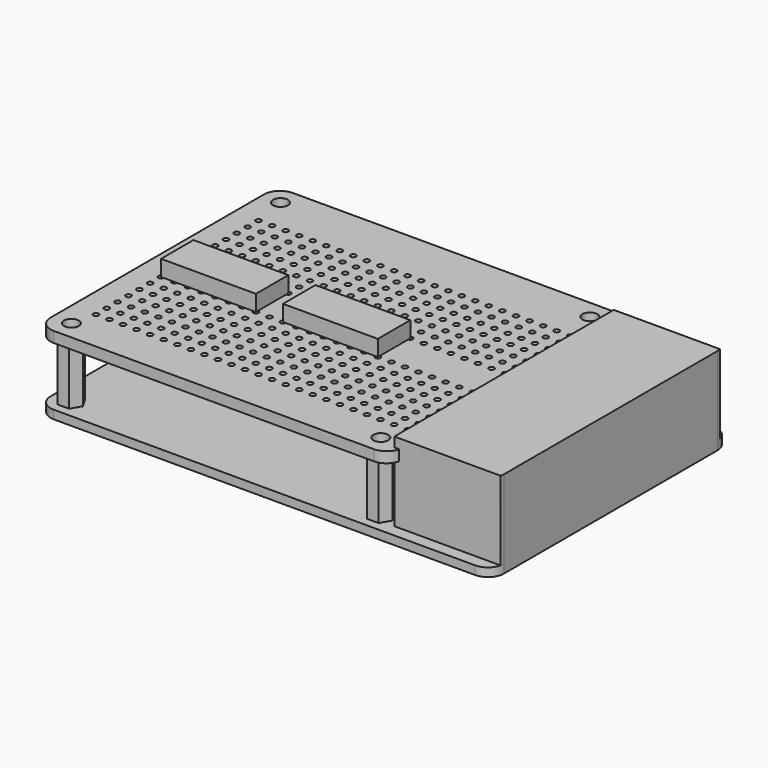
from build123d import *

# Parameters (mm, degrees)
F0_R      = 1.4
F1_DEPTH  = 1.6
F3_DEPTH  = 14.8
F4_W      = 50.8
F4_H      = 8.5
F5_DEPTH  = 8.5
F6_R      = 1.4
F7_DEPTH  = 11
F8_R      = 1.4
F8_R_2    = 0.5
F9_DEPTH  = 2
F10_W     = 17.78
F10_H     = 7.6
F11_DEPTH = 3


with BuildPart() as f1:
    # F0 (on Top) → F1 (new body)
    with BuildSketch(Plane.XY):
        with BuildLine():
            Line((-39.5, -28), (39.5, -28))
            ThreePointArc((39.5, -28), (41.62132, -27.12132), (42.5, -25))
            Line((42.5, -25), (42.5, 25))
            ThreePointArc((42.5, 25), (41.62132, 27.12132), (39.5, 28))
            Line((39.5, 28), (-39.5, 28))
            ThreePointArc((-39.5, 28), (-41.62132, 27.12132), (-42.5, 25))
            Line((-42.5, 25), (-42.5, -25))
            ThreePointArc((-42.5, -25), (-41.62132, -27.12132), (-39.5, -28))
        make_face()
        with Locations((-39, -24.5)):
            Circle(F0_R, mode=Mode.SUBTRACT)
        with Locations((19, -24.5)):
            Circle(F0_R, mode=Mode.SUBTRACT)
        with Locations((-39, 24.5)):
            Circle(F0_R, mode=Mode.SUBTRACT)
        with Locations((19, 24.5)):
            Circle(F0_R, mode=Mode.SUBTRACT)
    extrude(amount=F1_DEPTH)

    # F2 (on face) → F3 (join)
    with BuildSketch(Plane.XY.offset(1.6)):
        with BuildLine():
            Line((42.41719, 25.7), (22.5, 25.7))
            Line((22.5, 25.7), (22.5, -25.7))
            Line((22.5, -25.7), (42.41719, -25.7))
            ThreePointArc((42.41719, -25.7), (42.479226, -25.352441), (42.5, -25))
            Line((42.5, -25), (42.5, 25))
            ThreePointArc((42.5, 25), (42.479226, 25.352441), (42.41719, 25.7))
        make_face()
    extrude(amount=F3_DEPTH)

    # F4 (on face) → F5 (join)
    with BuildSketch(Plane.XY.offset(1.6)):
        with Locations((-10.1, 21.25)):
            Rectangle(F4_W, F4_H)
    extrude(amount=F5_DEPTH)


with BuildPart() as f7:
    # F6 (on face) → F7 (new body)
    with BuildSketch(Plane.XY.offset(1.6)):
        Polygon((-40.075, 26.361955), (-41.15, 24.5), (-40.075, 22.638045), (-37.925, 22.638045), (-36.85, 24.5), (-37.925, 26.361955), align=None)
        with Locations((-39, 24.5)):
            Circle(F6_R, mode=Mode.SUBTRACT)
        Polygon((17.925, 26.361955), (16.85, 24.5), (17.925, 22.638045), (20.075, 22.638045), (21.15, 24.5), (20.075, 26.361955), align=None)
        with Locations((19, 24.5)):
            Circle(F6_R, mode=Mode.SUBTRACT)
        Polygon((17.925, -22.638045), (16.85, -24.5), (17.925, -26.361955), (20.075, -26.361955), (21.15, -24.5), (20.075, -22.638045), align=None)
        with Locations((19, -24.5)):
            Circle(F6_R, mode=Mode.SUBTRACT)
        Polygon((-37.925, -26.361955), (-36.85, -24.5), (-37.925, -22.638045), (-40.075, -22.638045), (-41.15, -24.5), (-40.075, -26.361955), align=None)
        with Locations((-39, -24.5)):
            Circle(F6_R, mode=Mode.SUBTRACT)
    extrude(amount=F7_DEPTH)


with BuildPart() as f9:
    # F8 (on face) → F9 (new body)
    with BuildSketch(Plane.XY.offset(12.6)):
        with BuildLine():
            Line((-39.5, -28), (20.5, -28))
            ThreePointArc((20.5, -28), (22.62132, -27.12132), (23.5, -25))
            Line((23.5, -25), (23.5, 25))
            ThreePointArc((23.5, 25), (22.62132, 27.12132), (20.5, 28))
            Line((20.5, 28), (-39.5, 28))
            ThreePointArc((-39.5, 28), (-41.62132, 27.12132), (-42.5, 25))
            Line((-42.5, 25), (-42.5, -25))
            ThreePointArc((-42.5, -25), (-41.62132, -27.12132), (-39.5, -28))
        make_face()
        with Locations((-39, -24.5)):
            Circle(F8_R, mode=Mode.SUBTRACT)
        with Locations((-37.92, -20.08)):
            Circle(F8_R_2, mode=Mode.SUBTRACT)
        with Locations((-35.38, -20.08)):
            Circle(F8_R_2, mode=Mode.SUBTRACT)
        with Locations((-37.92, -17.54)):
            Circle(F8_R_2, mode=Mode.SUBTRACT)
        with Locations((-35.38, -17.54)):
            Circle(F8_R_2, mode=Mode.SUBTRACT)
        with Locations((-37.92, -15)):
            Circle(F8_R_2, mode=Mode.SUBTRACT)
        with Locations((-35.38, -15)):
            Circle(F8_R_2, mode=Mode.SUBTRACT)
        with Locations((-32.84, -20.08)):
            Circle(F8_R_2, mode=Mode.SUBTRACT)
        with Locations((-30.3, -20.08)):
            Circle(F8_R_2, mode=Mode.SUBTRACT)
        with Locations((-32.84, -17.54)):
            Circle(F8_R_2, mode=Mode.SUBTRACT)
        with Locations((-30.3, -17.54)):
            Circle(F8_R_2, mode=Mode.SUBTRACT)
        with Locations((-27.76, -20.08)):
            Circle(F8_R_2, mode=Mode.SUBTRACT)
        with Locations((-27.76, -17.54)):
            Circle(F8_R_2, mode=Mode.SUBTRACT)
        with Locations((-32.84, -15)):
            Circle(F8_R_2, mode=Mode.SUBTRACT)
        with Locations((-30.3, -15)):
            Circle(F8_R_2, mode=Mode.SUBTRACT)
        with Locations((-27.76, -15)):
            Circle(F8_R_2, mode=Mode.SUBTRACT)
        with Locations((-25.22, -20.08)):
            Circle(F8_R_2, mode=Mode.SUBTRACT)
        with Locations((-22.68, -20.08)):
            Circle(F8_R_2, mode=Mode.SUBTRACT)
        with Locations((-25.22, -17.54)):
            Circle(F8_R_2, mode=Mode.SUBTRACT)
        with Locations((-22.68, -17.54)):
            Circle(F8_R_2, mode=Mode.SUBTRACT)
        with Locations((-20.14, -20.08)):
            Circle(F8_R_2, mode=Mode.SUBTRACT)
        with Locations((-20.14, -17.54)):
            Circle(F8_R_2, mode=Mode.SUBTRACT)
        with Locations((-25.22, -15)):
            Circle(F8_R_2, mode=Mode.SUBTRACT)
        with Locations((-22.68, -15)):
            Circle(F8_R_2, mode=Mode.SUBTRACT)
        with Locations((-20.14, -15)):
            Circle(F8_R_2, mode=Mode.SUBTRACT)
        with Locations((-17.6, -20.08)):
            Circle(F8_R_2, mode=Mode.SUBTRACT)
        with Locations((-15.06, -20.08)):
            Circle(F8_R_2, mode=Mode.SUBTRACT)
        with Locations((-17.6, -17.54)):
            Circle(F8_R_2, mode=Mode.SUBTRACT)
        with Locations((-15.06, -17.54)):
            Circle(F8_R_2, mode=Mode.SUBTRACT)
        with Locations((-12.52, -20.08)):
            Circle(F8_R_2, mode=Mode.SUBTRACT)
        with Locations((-9.98, -20.08)):
            Circle(F8_R_2, mode=Mode.SUBTRACT)
        with Locations((-12.52, -17.54)):
            Circle(F8_R_2, mode=Mode.SUBTRACT)
        with Locations((-9.98, -17.54)):
            Circle(F8_R_2, mode=Mode.SUBTRACT)
        with Locations((-17.6, -15)):
            Circle(F8_R_2, mode=Mode.SUBTRACT)
        with Locations((-15.06, -15)):
            Circle(F8_R_2, mode=Mode.SUBTRACT)
        with Locations((-12.52, -15)):
            Circle(F8_R_2, mode=Mode.SUBTRACT)
        with Locations((-9.98, -15)):
            Circle(F8_R_2, mode=Mode.SUBTRACT)
        with Locations((-37.92, -12.46)):
            Circle(F8_R_2, mode=Mode.SUBTRACT)
        with Locations((-35.38, -12.46)):
            Circle(F8_R_2, mode=Mode.SUBTRACT)
        with Locations((-37.92, -9.92)):
            Circle(F8_R_2, mode=Mode.SUBTRACT)
        with Locations((-35.38, -9.92)):
            Circle(F8_R_2, mode=Mode.SUBTRACT)
        with Locations((-37.92, -7.38)):
            Circle(F8_R_2, mode=Mode.SUBTRACT)
        with Locations((-35.38, -7.38)):
            Circle(F8_R_2, mode=Mode.SUBTRACT)
        with Locations((-32.84, -12.46)):
            Circle(F8_R_2, mode=Mode.SUBTRACT)
        with Locations((-30.3, -12.46)):
            Circle(F8_R_2, mode=Mode.SUBTRACT)
        with Locations((-27.76, -12.46)):
            Circle(F8_R_2, mode=Mode.SUBTRACT)
        with Locations((-32.84, -9.92)):
            Circle(F8_R_2, mode=Mode.SUBTRACT)
        with Locations((-30.3, -9.92)):
            Circle(F8_R_2, mode=Mode.SUBTRACT)
        with Locations((-32.84, -7.38)):
            Circle(F8_R_2, mode=Mode.SUBTRACT)
        with Locations((-30.3, -7.38)):
            Circle(F8_R_2, mode=Mode.SUBTRACT)
        with Locations((-27.76, -9.92)):
            Circle(F8_R_2, mode=Mode.SUBTRACT)
        with Locations((-27.76, -7.38)):
            Circle(F8_R_2, mode=Mode.SUBTRACT)
        with Locations((-37.92, -4.84)):
            Circle(F8_R_2, mode=Mode.SUBTRACT)
        with Locations((-35.38, -4.84)):
            Circle(F8_R_2, mode=Mode.SUBTRACT)
        with Locations((-32.84, -4.84)):
            Circle(F8_R_2, mode=Mode.SUBTRACT)
        with Locations((-30.3, -4.84)):
            Circle(F8_R_2, mode=Mode.SUBTRACT)
        with Locations((-27.76, -4.84)):
            Circle(F8_R_2, mode=Mode.SUBTRACT)
        with Locations((-25.22, -12.46)):
            Circle(F8_R_2, mode=Mode.SUBTRACT)
        with Locations((-22.68, -12.46)):
            Circle(F8_R_2, mode=Mode.SUBTRACT)
        with Locations((-20.14, -12.46)):
            Circle(F8_R_2, mode=Mode.SUBTRACT)
        with Locations((-25.22, -9.92)):
            Circle(F8_R_2, mode=Mode.SUBTRACT)
        with Locations((-22.68, -9.92)):
            Circle(F8_R_2, mode=Mode.SUBTRACT)
        with Locations((-25.22, -7.38)):
            Circle(F8_R_2, mode=Mode.SUBTRACT)
        with Locations((-22.68, -7.38)):
            Circle(F8_R_2, mode=Mode.SUBTRACT)
        with Locations((-20.14, -9.92)):
            Circle(F8_R_2, mode=Mode.SUBTRACT)
        with Locations((-20.14, -7.38)):
            Circle(F8_R_2, mode=Mode.SUBTRACT)
        with Locations((-17.6, -12.46)):
            Circle(F8_R_2, mode=Mode.SUBTRACT)
        with Locations((-15.06, -12.46)):
            Circle(F8_R_2, mode=Mode.SUBTRACT)
        with Locations((-12.52, -12.46)):
            Circle(F8_R_2, mode=Mode.SUBTRACT)
        with Locations((-9.98, -12.46)):
            Circle(F8_R_2, mode=Mode.SUBTRACT)
        with Locations((-17.6, -9.92)):
            Circle(F8_R_2, mode=Mode.SUBTRACT)
        with Locations((-15.06, -9.92)):
            Circle(F8_R_2, mode=Mode.SUBTRACT)
        with Locations((-17.6, -7.38)):
            Circle(F8_R_2, mode=Mode.SUBTRACT)
        with Locations((-15.06, -7.38)):
            Circle(F8_R_2, mode=Mode.SUBTRACT)
        with Locations((-12.52, -9.92)):
            Circle(F8_R_2, mode=Mode.SUBTRACT)
        with Locations((-9.98, -9.92)):
            Circle(F8_R_2, mode=Mode.SUBTRACT)
        with Locations((-12.52, -7.38)):
            Circle(F8_R_2, mode=Mode.SUBTRACT)
        with Locations((-9.98, -7.38)):
            Circle(F8_R_2, mode=Mode.SUBTRACT)
        with Locations((-25.22, -4.84)):
            Circle(F8_R_2, mode=Mode.SUBTRACT)
        with Locations((-22.68, -4.84)):
            Circle(F8_R_2, mode=Mode.SUBTRACT)
        with Locations((-20.14, -4.84)):
            Circle(F8_R_2, mode=Mode.SUBTRACT)
        with Locations((-17.6, -4.84)):
            Circle(F8_R_2, mode=Mode.SUBTRACT)
        with Locations((-15.06, -4.84)):
            Circle(F8_R_2, mode=Mode.SUBTRACT)
        with Locations((-12.52, -4.84)):
            Circle(F8_R_2, mode=Mode.SUBTRACT)
        with Locations((-9.98, -4.84)):
            Circle(F8_R_2, mode=Mode.SUBTRACT)
        with Locations((-7.44, -20.08)):
            Circle(F8_R_2, mode=Mode.SUBTRACT)
        with Locations((-7.44, -17.54)):
            Circle(F8_R_2, mode=Mode.SUBTRACT)
        with Locations((-4.9, -20.08)):
            Circle(F8_R_2, mode=Mode.SUBTRACT)
        with Locations((-2.36, -20.08)):
            Circle(F8_R_2, mode=Mode.SUBTRACT)
        with Locations((-4.9, -17.54)):
            Circle(F8_R_2, mode=Mode.SUBTRACT)
        with Locations((-2.36, -17.54)):
            Circle(F8_R_2, mode=Mode.SUBTRACT)
        with Locations((-7.44, -15)):
            Circle(F8_R_2, mode=Mode.SUBTRACT)
        with Locations((-4.9, -15)):
            Circle(F8_R_2, mode=Mode.SUBTRACT)
        with Locations((-2.36, -15)):
            Circle(F8_R_2, mode=Mode.SUBTRACT)
        with Locations((0.18, -20.08)):
            Circle(F8_R_2, mode=Mode.SUBTRACT)
        with Locations((2.72, -20.08)):
            Circle(F8_R_2, mode=Mode.SUBTRACT)
        with Locations((0.18, -17.54)):
            Circle(F8_R_2, mode=Mode.SUBTRACT)
        with Locations((2.72, -17.54)):
            Circle(F8_R_2, mode=Mode.SUBTRACT)
        with Locations((5.26, -20.08)):
            Circle(F8_R_2, mode=Mode.SUBTRACT)
        with Locations((5.26, -17.54)):
            Circle(F8_R_2, mode=Mode.SUBTRACT)
        with Locations((0.18, -15)):
            Circle(F8_R_2, mode=Mode.SUBTRACT)
        with Locations((2.72, -15)):
            Circle(F8_R_2, mode=Mode.SUBTRACT)
        with Locations((5.26, -15)):
            Circle(F8_R_2, mode=Mode.SUBTRACT)
        with Locations((19, -24.5)):
            Circle(F8_R, mode=Mode.SUBTRACT)
        with Locations((7.8, -20.08)):
            Circle(F8_R_2, mode=Mode.SUBTRACT)
        with Locations((10.34, -20.08)):
            Circle(F8_R_2, mode=Mode.SUBTRACT)
        with Locations((7.8, -17.54)):
            Circle(F8_R_2, mode=Mode.SUBTRACT)
        with Locations((10.34, -17.54)):
            Circle(F8_R_2, mode=Mode.SUBTRACT)
        with Locations((12.88, -20.08)):
            Circle(F8_R_2, mode=Mode.SUBTRACT)
        with Locations((12.88, -17.54)):
            Circle(F8_R_2, mode=Mode.SUBTRACT)
        with Locations((7.8, -15)):
            Circle(F8_R_2, mode=Mode.SUBTRACT)
        with Locations((10.34, -15)):
            Circle(F8_R_2, mode=Mode.SUBTRACT)
        with Locations((12.88, -15)):
            Circle(F8_R_2, mode=Mode.SUBTRACT)
        with Locations((15.42, -20.08)):
            Circle(F8_R_2, mode=Mode.SUBTRACT)
        with Locations((17.96, -20.08)):
            Circle(F8_R_2, mode=Mode.SUBTRACT)
        with Locations((15.42, -17.54)):
            Circle(F8_R_2, mode=Mode.SUBTRACT)
        with Locations((17.96, -17.54)):
            Circle(F8_R_2, mode=Mode.SUBTRACT)
        with Locations((20.5, -20.08)):
            Circle(F8_R_2, mode=Mode.SUBTRACT)
        with Locations((20.5, -17.54)):
            Circle(F8_R_2, mode=Mode.SUBTRACT)
        with Locations((15.42, -15)):
            Circle(F8_R_2, mode=Mode.SUBTRACT)
        with Locations((17.96, -15)):
            Circle(F8_R_2, mode=Mode.SUBTRACT)
        with Locations((20.5, -15)):
            Circle(F8_R_2, mode=Mode.SUBTRACT)
        with Locations((-7.44, -12.46)):
            Circle(F8_R_2, mode=Mode.SUBTRACT)
        with Locations((-4.9, -12.46)):
            Circle(F8_R_2, mode=Mode.SUBTRACT)
        with Locations((-2.36, -12.46)):
            Circle(F8_R_2, mode=Mode.SUBTRACT)
        with Locations((-7.44, -9.92)):
            Circle(F8_R_2, mode=Mode.SUBTRACT)
        with Locations((-7.44, -7.38)):
            Circle(F8_R_2, mode=Mode.SUBTRACT)
        with Locations((-4.9, -9.92)):
            Circle(F8_R_2, mode=Mode.SUBTRACT)
        with Locations((-2.36, -9.92)):
            Circle(F8_R_2, mode=Mode.SUBTRACT)
        with Locations((-4.9, -7.38)):
            Circle(F8_R_2, mode=Mode.SUBTRACT)
        with Locations((-2.36, -7.38)):
            Circle(F8_R_2, mode=Mode.SUBTRACT)
        with Locations((0.18, -12.46)):
            Circle(F8_R_2, mode=Mode.SUBTRACT)
        with Locations((2.72, -12.46)):
            Circle(F8_R_2, mode=Mode.SUBTRACT)
        with Locations((5.26, -12.46)):
            Circle(F8_R_2, mode=Mode.SUBTRACT)
        with Locations((0.18, -9.92)):
            Circle(F8_R_2, mode=Mode.SUBTRACT)
        with Locations((2.72, -9.92)):
            Circle(F8_R_2, mode=Mode.SUBTRACT)
        with Locations((0.18, -7.38)):
            Circle(F8_R_2, mode=Mode.SUBTRACT)
        with Locations((2.72, -7.38)):
            Circle(F8_R_2, mode=Mode.SUBTRACT)
        with Locations((5.26, -9.92)):
            Circle(F8_R_2, mode=Mode.SUBTRACT)
        with Locations((5.26, -7.38)):
            Circle(F8_R_2, mode=Mode.SUBTRACT)
        with Locations((-7.44, -4.84)):
            Circle(F8_R_2, mode=Mode.SUBTRACT)
        with Locations((-4.9, -4.84)):
            Circle(F8_R_2, mode=Mode.SUBTRACT)
        with Locations((-2.36, -4.84)):
            Circle(F8_R_2, mode=Mode.SUBTRACT)
        with Locations((0.18, -4.84)):
            Circle(F8_R_2, mode=Mode.SUBTRACT)
        with Locations((2.72, -4.84)):
            Circle(F8_R_2, mode=Mode.SUBTRACT)
        with Locations((5.26, -4.84)):
            Circle(F8_R_2, mode=Mode.SUBTRACT)
        with Locations((7.8, -12.46)):
            Circle(F8_R_2, mode=Mode.SUBTRACT)
        with Locations((10.34, -12.46)):
            Circle(F8_R_2, mode=Mode.SUBTRACT)
        with Locations((12.88, -12.46)):
            Circle(F8_R_2, mode=Mode.SUBTRACT)
        with Locations((7.8, -9.92)):
            Circle(F8_R_2, mode=Mode.SUBTRACT)
        with Locations((10.34, -9.92)):
            Circle(F8_R_2, mode=Mode.SUBTRACT)
        with Locations((7.8, -7.38)):
            Circle(F8_R_2, mode=Mode.SUBTRACT)
        with Locations((10.34, -7.38)):
            Circle(F8_R_2, mode=Mode.SUBTRACT)
        with Locations((12.88, -9.92)):
            Circle(F8_R_2, mode=Mode.SUBTRACT)
        with Locations((12.88, -7.38)):
            Circle(F8_R_2, mode=Mode.SUBTRACT)
        with Locations((15.42, -12.46)):
            Circle(F8_R_2, mode=Mode.SUBTRACT)
        with Locations((17.96, -12.46)):
            Circle(F8_R_2, mode=Mode.SUBTRACT)
        with Locations((20.5, -12.46)):
            Circle(F8_R_2, mode=Mode.SUBTRACT)
        with Locations((15.42, -9.92)):
            Circle(F8_R_2, mode=Mode.SUBTRACT)
        with Locations((17.96, -9.92)):
            Circle(F8_R_2, mode=Mode.SUBTRACT)
        with Locations((15.42, -7.38)):
            Circle(F8_R_2, mode=Mode.SUBTRACT)
        with Locations((17.96, -7.38)):
            Circle(F8_R_2, mode=Mode.SUBTRACT)
        with Locations((20.5, -9.92)):
            Circle(F8_R_2, mode=Mode.SUBTRACT)
        with Locations((20.5, -7.38)):
            Circle(F8_R_2, mode=Mode.SUBTRACT)
        with Locations((7.8, -4.84)):
            Circle(F8_R_2, mode=Mode.SUBTRACT)
        with Locations((10.34, -4.84)):
            Circle(F8_R_2, mode=Mode.SUBTRACT)
        with Locations((12.88, -4.84)):
            Circle(F8_R_2, mode=Mode.SUBTRACT)
        with Locations((15.42, -4.84)):
            Circle(F8_R_2, mode=Mode.SUBTRACT)
        with Locations((17.96, -4.84)):
            Circle(F8_R_2, mode=Mode.SUBTRACT)
        with Locations((20.5, -4.84)):
            Circle(F8_R_2, mode=Mode.SUBTRACT)
        with Locations((-37.92, 2.76)):
            Circle(F8_R_2, mode=Mode.SUBTRACT)
        with Locations((-35.38, 2.76)):
            Circle(F8_R_2, mode=Mode.SUBTRACT)
        with Locations((-37.92, 5.3)):
            Circle(F8_R_2, mode=Mode.SUBTRACT)
        with Locations((-35.38, 5.3)):
            Circle(F8_R_2, mode=Mode.SUBTRACT)
        with Locations((-32.84, 2.76)):
            Circle(F8_R_2, mode=Mode.SUBTRACT)
        with Locations((-30.3, 2.76)):
            Circle(F8_R_2, mode=Mode.SUBTRACT)
        with Locations((-27.76, 2.76)):
            Circle(F8_R_2, mode=Mode.SUBTRACT)
        with Locations((-32.84, 5.3)):
            Circle(F8_R_2, mode=Mode.SUBTRACT)
        with Locations((-30.3, 5.3)):
            Circle(F8_R_2, mode=Mode.SUBTRACT)
        with Locations((-27.76, 5.3)):
            Circle(F8_R_2, mode=Mode.SUBTRACT)
        with Locations((-37.92, 7.84)):
            Circle(F8_R_2, mode=Mode.SUBTRACT)
        with Locations((-35.38, 7.84)):
            Circle(F8_R_2, mode=Mode.SUBTRACT)
        with Locations((-37.92, 10.38)):
            Circle(F8_R_2, mode=Mode.SUBTRACT)
        with Locations((-35.38, 10.38)):
            Circle(F8_R_2, mode=Mode.SUBTRACT)
        with Locations((-37.92, 12.92)):
            Circle(F8_R_2, mode=Mode.SUBTRACT)
        with Locations((-35.38, 12.92)):
            Circle(F8_R_2, mode=Mode.SUBTRACT)
        with Locations((-32.84, 7.84)):
            Circle(F8_R_2, mode=Mode.SUBTRACT)
        with Locations((-30.3, 7.84)):
            Circle(F8_R_2, mode=Mode.SUBTRACT)
        with Locations((-32.84, 10.38)):
            Circle(F8_R_2, mode=Mode.SUBTRACT)
        with Locations((-30.3, 10.38)):
            Circle(F8_R_2, mode=Mode.SUBTRACT)
        with Locations((-27.76, 7.84)):
            Circle(F8_R_2, mode=Mode.SUBTRACT)
        with Locations((-27.76, 10.38)):
            Circle(F8_R_2, mode=Mode.SUBTRACT)
        with Locations((-32.84, 12.92)):
            Circle(F8_R_2, mode=Mode.SUBTRACT)
        with Locations((-30.3, 12.92)):
            Circle(F8_R_2, mode=Mode.SUBTRACT)
        with Locations((-27.76, 12.92)):
            Circle(F8_R_2, mode=Mode.SUBTRACT)
        with Locations((-25.22, 2.76)):
            Circle(F8_R_2, mode=Mode.SUBTRACT)
        with Locations((-22.68, 2.76)):
            Circle(F8_R_2, mode=Mode.SUBTRACT)
        with Locations((-20.14, 2.76)):
            Circle(F8_R_2, mode=Mode.SUBTRACT)
        with Locations((-25.22, 5.3)):
            Circle(F8_R_2, mode=Mode.SUBTRACT)
        with Locations((-22.68, 5.3)):
            Circle(F8_R_2, mode=Mode.SUBTRACT)
        with Locations((-20.14, 5.3)):
            Circle(F8_R_2, mode=Mode.SUBTRACT)
        with Locations((-17.6, 2.76)):
            Circle(F8_R_2, mode=Mode.SUBTRACT)
        with Locations((-15.06, 2.76)):
            Circle(F8_R_2, mode=Mode.SUBTRACT)
        with Locations((-12.52, 2.76)):
            Circle(F8_R_2, mode=Mode.SUBTRACT)
        with Locations((-9.98, 2.76)):
            Circle(F8_R_2, mode=Mode.SUBTRACT)
        with Locations((-17.6, 5.3)):
            Circle(F8_R_2, mode=Mode.SUBTRACT)
        with Locations((-15.06, 5.3)):
            Circle(F8_R_2, mode=Mode.SUBTRACT)
        with Locations((-12.52, 5.3)):
            Circle(F8_R_2, mode=Mode.SUBTRACT)
        with Locations((-9.98, 5.3)):
            Circle(F8_R_2, mode=Mode.SUBTRACT)
        with Locations((-25.22, 7.84)):
            Circle(F8_R_2, mode=Mode.SUBTRACT)
        with Locations((-22.68, 7.84)):
            Circle(F8_R_2, mode=Mode.SUBTRACT)
        with Locations((-25.22, 10.38)):
            Circle(F8_R_2, mode=Mode.SUBTRACT)
        with Locations((-22.68, 10.38)):
            Circle(F8_R_2, mode=Mode.SUBTRACT)
        with Locations((-20.14, 7.84)):
            Circle(F8_R_2, mode=Mode.SUBTRACT)
        with Locations((-20.14, 10.38)):
            Circle(F8_R_2, mode=Mode.SUBTRACT)
        with Locations((-25.22, 12.92)):
            Circle(F8_R_2, mode=Mode.SUBTRACT)
        with Locations((-22.68, 12.92)):
            Circle(F8_R_2, mode=Mode.SUBTRACT)
        with Locations((-20.14, 12.92)):
            Circle(F8_R_2, mode=Mode.SUBTRACT)
        with Locations((-17.6, 7.84)):
            Circle(F8_R_2, mode=Mode.SUBTRACT)
        with Locations((-15.06, 7.84)):
            Circle(F8_R_2, mode=Mode.SUBTRACT)
        with Locations((-17.6, 10.38)):
            Circle(F8_R_2, mode=Mode.SUBTRACT)
        with Locations((-15.06, 10.38)):
            Circle(F8_R_2, mode=Mode.SUBTRACT)
        with Locations((-12.52, 7.84)):
            Circle(F8_R_2, mode=Mode.SUBTRACT)
        with Locations((-9.98, 7.84)):
            Circle(F8_R_2, mode=Mode.SUBTRACT)
        with Locations((-12.52, 10.38)):
            Circle(F8_R_2, mode=Mode.SUBTRACT)
        with Locations((-9.98, 10.38)):
            Circle(F8_R_2, mode=Mode.SUBTRACT)
        with Locations((-17.6, 12.92)):
            Circle(F8_R_2, mode=Mode.SUBTRACT)
        with Locations((-15.06, 12.92)):
            Circle(F8_R_2, mode=Mode.SUBTRACT)
        with Locations((-12.52, 12.92)):
            Circle(F8_R_2, mode=Mode.SUBTRACT)
        with Locations((-9.98, 12.92)):
            Circle(F8_R_2, mode=Mode.SUBTRACT)
        with Locations((-37.92, 15.46)):
            Circle(F8_R_2, mode=Mode.SUBTRACT)
        with Locations((-35.38, 15.46)):
            Circle(F8_R_2, mode=Mode.SUBTRACT)
        with Locations((-37.92, 18)):
            Circle(F8_R_2, mode=Mode.SUBTRACT)
        with Locations((-35.38, 18)):
            Circle(F8_R_2, mode=Mode.SUBTRACT)
        with Locations((-32.84, 15.46)):
            Circle(F8_R_2, mode=Mode.SUBTRACT)
        with Locations((-30.3, 15.46)):
            Circle(F8_R_2, mode=Mode.SUBTRACT)
        with Locations((-27.76, 15.46)):
            Circle(F8_R_2, mode=Mode.SUBTRACT)
        with Locations((-32.84, 18)):
            Circle(F8_R_2, mode=Mode.SUBTRACT)
        with Locations((-30.3, 18)):
            Circle(F8_R_2, mode=Mode.SUBTRACT)
        with Locations((-27.76, 18)):
            Circle(F8_R_2, mode=Mode.SUBTRACT)
        with Locations((-39, 24.5)):
            Circle(F8_R, mode=Mode.SUBTRACT)
        with Locations((-25.22, 15.46)):
            Circle(F8_R_2, mode=Mode.SUBTRACT)
        with Locations((-22.68, 15.46)):
            Circle(F8_R_2, mode=Mode.SUBTRACT)
        with Locations((-20.14, 15.46)):
            Circle(F8_R_2, mode=Mode.SUBTRACT)
        with Locations((-25.22, 18)):
            Circle(F8_R_2, mode=Mode.SUBTRACT)
        with Locations((-22.68, 18)):
            Circle(F8_R_2, mode=Mode.SUBTRACT)
        with Locations((-20.14, 18)):
            Circle(F8_R_2, mode=Mode.SUBTRACT)
        with Locations((-17.6, 15.46)):
            Circle(F8_R_2, mode=Mode.SUBTRACT)
        with Locations((-15.06, 15.46)):
            Circle(F8_R_2, mode=Mode.SUBTRACT)
        with Locations((-12.52, 15.46)):
            Circle(F8_R_2, mode=Mode.SUBTRACT)
        with Locations((-9.98, 15.46)):
            Circle(F8_R_2, mode=Mode.SUBTRACT)
        with Locations((-17.6, 18)):
            Circle(F8_R_2, mode=Mode.SUBTRACT)
        with Locations((-15.06, 18)):
            Circle(F8_R_2, mode=Mode.SUBTRACT)
        with Locations((-12.52, 18)):
            Circle(F8_R_2, mode=Mode.SUBTRACT)
        with Locations((-9.98, 18)):
            Circle(F8_R_2, mode=Mode.SUBTRACT)
        with Locations((-7.44, 2.76)):
            Circle(F8_R_2, mode=Mode.SUBTRACT)
        with Locations((-4.9, 2.76)):
            Circle(F8_R_2, mode=Mode.SUBTRACT)
        with Locations((-2.36, 2.76)):
            Circle(F8_R_2, mode=Mode.SUBTRACT)
        with Locations((-7.44, 5.3)):
            Circle(F8_R_2, mode=Mode.SUBTRACT)
        with Locations((-4.9, 5.3)):
            Circle(F8_R_2, mode=Mode.SUBTRACT)
        with Locations((-2.36, 5.3)):
            Circle(F8_R_2, mode=Mode.SUBTRACT)
        with Locations((0.18, 2.76)):
            Circle(F8_R_2, mode=Mode.SUBTRACT)
        with Locations((2.72, 2.76)):
            Circle(F8_R_2, mode=Mode.SUBTRACT)
        with Locations((5.26, 2.76)):
            Circle(F8_R_2, mode=Mode.SUBTRACT)
        with Locations((0.18, 5.3)):
            Circle(F8_R_2, mode=Mode.SUBTRACT)
        with Locations((2.72, 5.3)):
            Circle(F8_R_2, mode=Mode.SUBTRACT)
        with Locations((5.26, 5.3)):
            Circle(F8_R_2, mode=Mode.SUBTRACT)
        with Locations((-7.44, 7.84)):
            Circle(F8_R_2, mode=Mode.SUBTRACT)
        with Locations((-7.44, 10.38)):
            Circle(F8_R_2, mode=Mode.SUBTRACT)
        with Locations((-4.9, 7.84)):
            Circle(F8_R_2, mode=Mode.SUBTRACT)
        with Locations((-2.36, 7.84)):
            Circle(F8_R_2, mode=Mode.SUBTRACT)
        with Locations((-4.9, 10.38)):
            Circle(F8_R_2, mode=Mode.SUBTRACT)
        with Locations((-2.36, 10.38)):
            Circle(F8_R_2, mode=Mode.SUBTRACT)
        with Locations((-7.44, 12.92)):
            Circle(F8_R_2, mode=Mode.SUBTRACT)
        with Locations((-4.9, 12.92)):
            Circle(F8_R_2, mode=Mode.SUBTRACT)
        with Locations((-2.36, 12.92)):
            Circle(F8_R_2, mode=Mode.SUBTRACT)
        with Locations((0.18, 7.84)):
            Circle(F8_R_2, mode=Mode.SUBTRACT)
        with Locations((2.72, 7.84)):
            Circle(F8_R_2, mode=Mode.SUBTRACT)
        with Locations((0.18, 10.38)):
            Circle(F8_R_2, mode=Mode.SUBTRACT)
        with Locations((2.72, 10.38)):
            Circle(F8_R_2, mode=Mode.SUBTRACT)
        with Locations((5.26, 7.84)):
            Circle(F8_R_2, mode=Mode.SUBTRACT)
        with Locations((5.26, 10.38)):
            Circle(F8_R_2, mode=Mode.SUBTRACT)
        with Locations((0.18, 12.92)):
            Circle(F8_R_2, mode=Mode.SUBTRACT)
        with Locations((2.72, 12.92)):
            Circle(F8_R_2, mode=Mode.SUBTRACT)
        with Locations((5.26, 12.92)):
            Circle(F8_R_2, mode=Mode.SUBTRACT)
        with Locations((7.8, 2.76)):
            Circle(F8_R_2, mode=Mode.SUBTRACT)
        with Locations((10.34, 2.76)):
            Circle(F8_R_2, mode=Mode.SUBTRACT)
        with Locations((12.88, 2.76)):
            Circle(F8_R_2, mode=Mode.SUBTRACT)
        with Locations((7.8, 5.3)):
            Circle(F8_R_2, mode=Mode.SUBTRACT)
        with Locations((10.34, 5.3)):
            Circle(F8_R_2, mode=Mode.SUBTRACT)
        with Locations((12.88, 5.3)):
            Circle(F8_R_2, mode=Mode.SUBTRACT)
        with Locations((15.42, 2.76)):
            Circle(F8_R_2, mode=Mode.SUBTRACT)
        with Locations((17.96, 2.76)):
            Circle(F8_R_2, mode=Mode.SUBTRACT)
        with Locations((20.5, 2.76)):
            Circle(F8_R_2, mode=Mode.SUBTRACT)
        with Locations((15.42, 5.3)):
            Circle(F8_R_2, mode=Mode.SUBTRACT)
        with Locations((17.96, 5.3)):
            Circle(F8_R_2, mode=Mode.SUBTRACT)
        with Locations((20.5, 5.3)):
            Circle(F8_R_2, mode=Mode.SUBTRACT)
        with Locations((7.8, 7.84)):
            Circle(F8_R_2, mode=Mode.SUBTRACT)
        with Locations((10.34, 7.84)):
            Circle(F8_R_2, mode=Mode.SUBTRACT)
        with Locations((7.8, 10.38)):
            Circle(F8_R_2, mode=Mode.SUBTRACT)
        with Locations((10.34, 10.38)):
            Circle(F8_R_2, mode=Mode.SUBTRACT)
        with Locations((12.88, 7.84)):
            Circle(F8_R_2, mode=Mode.SUBTRACT)
        with Locations((12.88, 10.38)):
            Circle(F8_R_2, mode=Mode.SUBTRACT)
        with Locations((7.8, 12.92)):
            Circle(F8_R_2, mode=Mode.SUBTRACT)
        with Locations((10.34, 12.92)):
            Circle(F8_R_2, mode=Mode.SUBTRACT)
        with Locations((12.88, 12.92)):
            Circle(F8_R_2, mode=Mode.SUBTRACT)
        with Locations((15.42, 7.84)):
            Circle(F8_R_2, mode=Mode.SUBTRACT)
        with Locations((17.96, 7.84)):
            Circle(F8_R_2, mode=Mode.SUBTRACT)
        with Locations((15.42, 10.38)):
            Circle(F8_R_2, mode=Mode.SUBTRACT)
        with Locations((17.96, 10.38)):
            Circle(F8_R_2, mode=Mode.SUBTRACT)
        with Locations((20.5, 7.84)):
            Circle(F8_R_2, mode=Mode.SUBTRACT)
        with Locations((20.5, 10.38)):
            Circle(F8_R_2, mode=Mode.SUBTRACT)
        with Locations((15.42, 12.92)):
            Circle(F8_R_2, mode=Mode.SUBTRACT)
        with Locations((17.96, 12.92)):
            Circle(F8_R_2, mode=Mode.SUBTRACT)
        with Locations((20.5, 12.92)):
            Circle(F8_R_2, mode=Mode.SUBTRACT)
        with Locations((-7.44, 15.46)):
            Circle(F8_R_2, mode=Mode.SUBTRACT)
        with Locations((-4.9, 15.46)):
            Circle(F8_R_2, mode=Mode.SUBTRACT)
        with Locations((-2.36, 15.46)):
            Circle(F8_R_2, mode=Mode.SUBTRACT)
        with Locations((-7.44, 18)):
            Circle(F8_R_2, mode=Mode.SUBTRACT)
        with Locations((-4.9, 18)):
            Circle(F8_R_2, mode=Mode.SUBTRACT)
        with Locations((-2.36, 18)):
            Circle(F8_R_2, mode=Mode.SUBTRACT)
        with Locations((0.18, 15.46)):
            Circle(F8_R_2, mode=Mode.SUBTRACT)
        with Locations((2.72, 15.46)):
            Circle(F8_R_2, mode=Mode.SUBTRACT)
        with Locations((5.26, 15.46)):
            Circle(F8_R_2, mode=Mode.SUBTRACT)
        with Locations((0.18, 18)):
            Circle(F8_R_2, mode=Mode.SUBTRACT)
        with Locations((2.72, 18)):
            Circle(F8_R_2, mode=Mode.SUBTRACT)
        with Locations((5.26, 18)):
            Circle(F8_R_2, mode=Mode.SUBTRACT)
        with Locations((7.8, 15.46)):
            Circle(F8_R_2, mode=Mode.SUBTRACT)
        with Locations((10.34, 15.46)):
            Circle(F8_R_2, mode=Mode.SUBTRACT)
        with Locations((12.88, 15.46)):
            Circle(F8_R_2, mode=Mode.SUBTRACT)
        with Locations((7.8, 18)):
            Circle(F8_R_2, mode=Mode.SUBTRACT)
        with Locations((10.34, 18)):
            Circle(F8_R_2, mode=Mode.SUBTRACT)
        with Locations((12.88, 18)):
            Circle(F8_R_2, mode=Mode.SUBTRACT)
        with Locations((15.42, 15.46)):
            Circle(F8_R_2, mode=Mode.SUBTRACT)
        with Locations((17.96, 15.46)):
            Circle(F8_R_2, mode=Mode.SUBTRACT)
        with Locations((20.5, 15.46)):
            Circle(F8_R_2, mode=Mode.SUBTRACT)
        with Locations((15.42, 18)):
            Circle(F8_R_2, mode=Mode.SUBTRACT)
        with Locations((17.96, 18)):
            Circle(F8_R_2, mode=Mode.SUBTRACT)
        with Locations((20.5, 18)):
            Circle(F8_R_2, mode=Mode.SUBTRACT)
        with Locations((19, 24.5)):
            Circle(F8_R, mode=Mode.SUBTRACT)
    extrude(amount=F9_DEPTH)


with BuildPart() as f11:
    # F10 (on face) → F11 (new body)
    with BuildSketch(Plane.XY.offset(14.6)):
        with Locations((-29.03, -1.04)):
            Rectangle(F10_W, F10_H)
        with Locations((-6.17, -1.04)):
            Rectangle(F10_W, F10_H)
    extrude(amount=F11_DEPTH)


solid = Compound([f1.part, f7.part, f9.part, f11.part])
